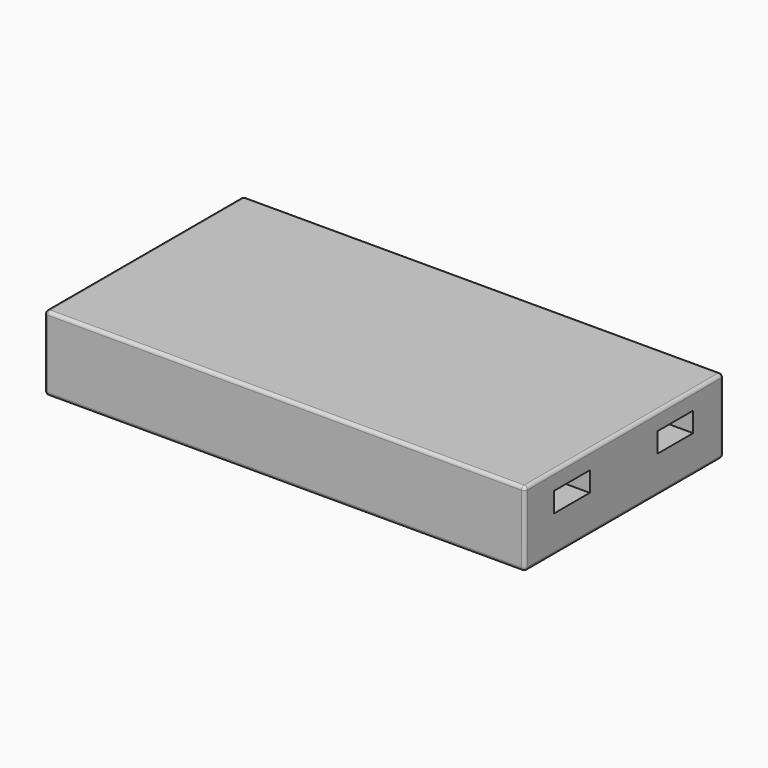
from build123d import *

# Parameters (mm, degrees)
SKETCH_W        = 145
SKETCH_H        = 75
PAD_DEPTH       = 22.5
FILLET_R        = 1
SKETCH001_W     = 5
SKETCH001_H     = 2
SKETCH001_W_2   = 6
SKETCH001_H_2   = 8
POCKET_DEPTH    = 2
SKETCH002_W     = 13.5
SKETCH002_H     = 6
POCKET001_DEPTH = 20


with BuildPart() as part:
    # Sketch → Pad (new body)
    with BuildSketch(Plane.XY):
        Rectangle(SKETCH_W, SKETCH_H)
    extrude(amount=PAD_DEPTH)

    # Fillet
    fillet_edges = [part.edges().sort_by_distance(p)[0] for p in [
        (0, -37.5, 22.5),
        (72.5, 0, 22.5),
        (0, 37.5, 22.5),
        (-72.5, 0, 22.5),
        (-72.5, -37.5, 11.25),
        (72.5, -37.5, 11.25),
        (72.5, 37.5, 11.25),
        (72.5, 0, 0),
        (0, -37.5, 0),
        (0, 37.5, 0),
        (-72.5, 0, 0),
        (-72.5, 37.5, 11.25),
    ]]
    fillet(fillet_edges, radius=FILLET_R)

    # Sketch001 (on Face13 of Fillet) → Pocket (cut)
    with BuildSketch(Plane(origin=(0, 0, 0), x_dir=(1, 0, 0), z_dir=(0, 0, -1))):
        with Locations((63.084595, 9)):
            Rectangle(SKETCH001_W, SKETCH001_H)
        with Locations((63.084595, 3)):
            Rectangle(SKETCH001_W, SKETCH001_H)
        with Locations((63.084595, -3)):
            Rectangle(SKETCH001_W, SKETCH001_H)
        with Locations((63.084595, -9)):
            Rectangle(SKETCH001_W, SKETCH001_H)
        with Locations((49.584595, 0)):
            Rectangle(SKETCH001_W_2, SKETCH001_H_2)
    extrude(amount=-POCKET_DEPTH, mode=Mode.SUBTRACT)

    # Sketch002 (on Face12 of Pocket) → Pocket001 (cut)
    with BuildSketch(Plane.YZ.offset(72.5)):
        with Locations((19.25, 14.2)):
            Rectangle(SKETCH002_W, SKETCH002_H)
        with Locations((-19.75, 14.2)):
            Rectangle(SKETCH002_W, SKETCH002_H)
    extrude(amount=-POCKET001_DEPTH, mode=Mode.SUBTRACT)


solid = part.part
